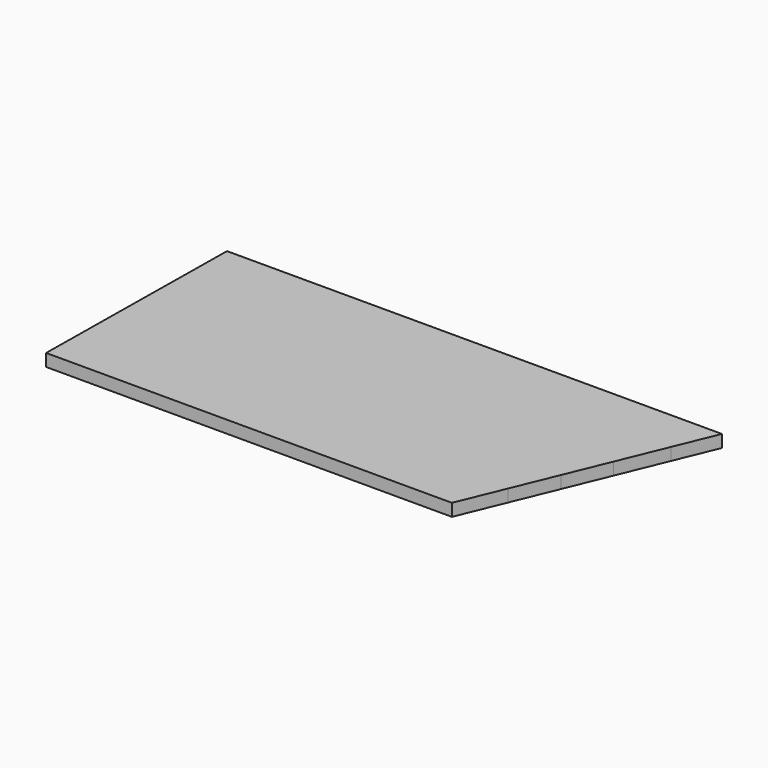
from build123d import *

# Parameters (mm, degrees)
F2_DEPTH = 12.5


with BuildPart() as f2:
    # F0 (on Top) → F2 (new body, symmetric)
    with BuildSketch(Plane.XY):
        Polygon((185.589586, 449.965284), (-814.410414, 449.965284), (-815.468422, 364.794974), (150.460826, 364.794974), align=None)
        Polygon((150.460826, 364.794974), (-815.468422, 364.794974), (-816.656832, 269.127164), (111.002339, 269.127164), align=None)
        Polygon((75.045238, 181.948527), (-817.739788, 181.948527), (-818.843158, 93.126548), (38.410335, 93.126548), align=None)
        Polygon((111.002339, 269.127164), (-816.656832, 269.127164), (-817.739788, 181.948527), (75.045238, 181.948527), align=None)
        Polygon((38.410335, 93.126548), (-818.843158, 93.126548), (-820, 0), (0, 0), align=None)
    extrude(amount=F2_DEPTH, both=True)


solid = f2.part
